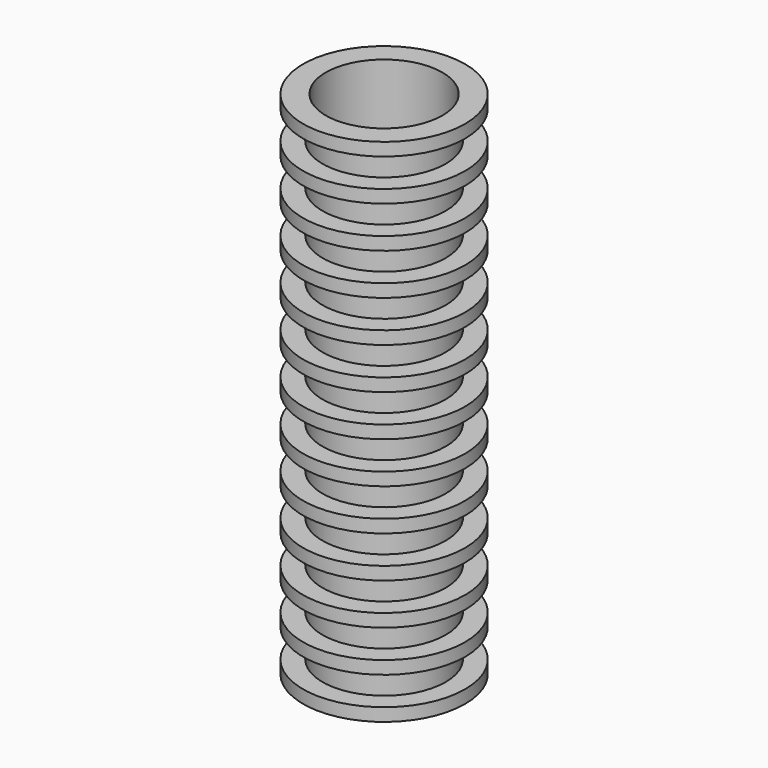
from build123d import *

# Parameters (mm, degrees)
F2_R     = 4.5
F3_DEPTH = 39.4


with BuildPart() as f1:
    # F0 (on Front) → F1 (revolve)
    with BuildSketch(Plane.XZ):
        Polygon((0, 0), (6.25, 0), (6.25, 1), (4.75, 1), (4.75, 3.2), (6.25, 3.2), (6.25, 4.2), (4.75, 4.2), (4.75, 6.4), (6.25, 6.4), (6.25, 7.4), (4.75, 7.4), (4.75, 9.6), (6.25, 9.6), (6.25, 10.6), (4.75, 10.6), (4.75, 12.8), (6.25, 12.8), (6.25, 13.8), (4.75, 13.8), (4.75, 16), (6.25, 16), (6.25, 17), (4.75, 17), (4.75, 19.2), (6.25, 19.2), (6.25, 20.2), (4.75, 20.2), (4.75, 22.4), (6.25, 22.4), (6.25, 23.4), (4.75, 23.4), (4.75, 25.6), (6.25, 25.6), (6.25, 26.6), (4.75, 26.6), (4.75, 28.8), (6.25, 28.8), (6.25, 29.8), (4.75, 29.8), (4.75, 32), (6.25, 32), (6.25, 33), (4.75, 33), (4.75, 35.2), (6.25, 35.2), (6.25, 36.2), (4.75, 36.2), (4.75, 38.4), (6.25, 38.4), (6.25, 39.4), (4.75, 39.4), (0, 39.4), align=None)
    revolve(axis=Axis((0, 0, 19.7), (0, 0, -1)))

    # F2 (on face) → F3 (cut, through all)
    with BuildSketch(Plane.XY.offset(39.4)):
        Circle(F2_R)
    extrude(amount=-F3_DEPTH, mode=Mode.SUBTRACT)


solid = f1.part
